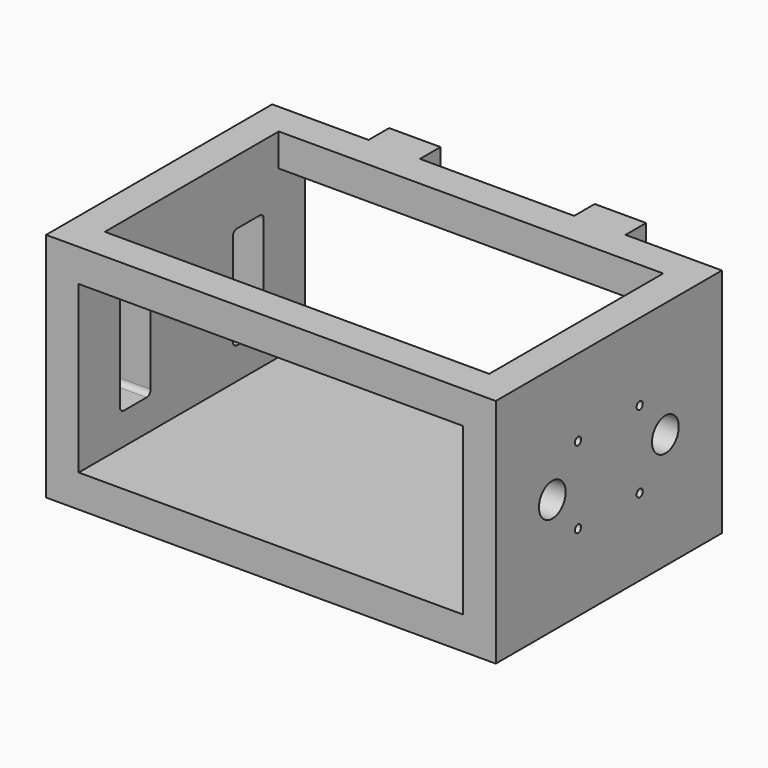
from build123d import *

# Parameters (mm, degrees)
F0_W      = 175
F0_H      = 90
F1_DEPTH  = 55
F3_W      = 149.6
F3_H      = 64.6
F4_DEPTH  = 110
F5_W      = 149.6
F5_H      = 84.6
F6_DEPTH  = 12.7
F7_DEPTH  = 12.7
F8_R      = 1.5
F9_DEPTH  = 12.7
F10_W     = 10
F10_H     = 12.7
F10_W_2   = 20
F11_DEPTH = 10
F13_DEPTH = 137.501
F15_DEPTH = 97.501


with BuildPart() as f1:
    # F0 (on Front) → F1 (new body, symmetric)
    with BuildSketch(Plane.XZ):
        Rectangle(F0_W, F0_H)
    extrude(amount=F1_DEPTH, both=True)

    # F3 (on face) → F4 (cut)
    with BuildSketch(Plane.XZ.offset(55)):
        Rectangle(F3_W, F3_H)
    extrude(amount=-F4_DEPTH, mode=Mode.SUBTRACT)

    # F5 (on face) → F6 (cut)
    with BuildSketch(Plane.XY.offset(45)):
        Rectangle(F5_W, F5_H)
    extrude(amount=-F6_DEPTH, mode=Mode.SUBTRACT)

    # F2 (on face) → F7 (cut)
    with BuildSketch(Plane(origin=(-87.5, 0, 0), x_dir=(0, -1, 0), z_dir=(-1, 0, 0))):
        with BuildLine():
            Line((20, 18), (20, 0))
            Line((20, 0), (20, -18))
            ThreePointArc((20, -18), (20.585786, -19.414214), (22, -20))
            Line((22, -20), (33, -20))
            ThreePointArc((33, -20), (34.414214, -19.414214), (35, -18))
            Line((35, -18), (35, 0))
            Line((35, 0), (35, 18))
            ThreePointArc((35, 18), (34.414214, 19.414214), (33, 20))
            Line((33, 20), (22, 20))
            ThreePointArc((22, 20), (20.585786, 19.414214), (20, 18))
        make_face()
        with BuildLine():
            Line((-22, 20), (-33, 20))
            ThreePointArc((-33, 20), (-34.414214, 19.414214), (-35, 18))
            Line((-35, 18), (-35, 0))
            Line((-35, 0), (-35, -18))
            ThreePointArc((-35, -18), (-34.414214, -19.414214), (-33, -20))
            Line((-33, -20), (-22, -20))
            ThreePointArc((-22, -20), (-20.585786, -19.414214), (-20, -18))
            Line((-20, -18), (-20, 0))
            Line((-20, 0), (-20, 18))
            ThreePointArc((-20, 18), (-20.585786, 19.414214), (-22, 20))
        make_face()
    extrude(amount=-F7_DEPTH, mode=Mode.SUBTRACT)

    # F8 (on face) → F9 (cut)
    with BuildSketch(Plane.YZ.offset(87.5)):
        with BuildLine():
            ThreePointArc((-34, 0), (-27.5, -6.5), (-21, 0))
            Line((-21, 0), (-34, 0))
        make_face()
        with BuildLine():
            Line((-34, 0), (-21, 0))
            ThreePointArc((-21, 0), (-27.5, 6.5), (-34, 0))
        make_face()
        with BuildLine():
            Line((34, 0), (21, 0))
            ThreePointArc((21, 0), (27.5, -6.5), (34, 0))
        make_face()
        with BuildLine():
            ThreePointArc((34, 0), (27.5, 6.5), (21, 0))
            Line((21, 0), (34, 0))
        make_face()
        with Locations((-15, -15)):
            Circle(F8_R)
        with Locations((-15, 15)):
            Circle(F8_R)
        with Locations((15, 15)):
            Circle(F8_R)
        with Locations((15, -15)):
            Circle(F8_R)
    extrude(amount=-F9_DEPTH, mode=Mode.SUBTRACT)

    # F10 (on face) → F11 (join)
    with BuildSketch(Plane(origin=(0, 55, 0), x_dir=(-1, 0, 0), z_dir=(0, 1, 0))):
        with Locations((5, -38.65)):
            Rectangle(F10_W, F10_H)
        with Locations((-5, -38.65)):
            Rectangle(F10_W, F10_H)
        with Locations((-40, 38.65)):
            Rectangle(F10_W_2, F10_H)
        with Locations((40, 38.65)):
            Rectangle(F10_W_2, F10_H)
    extrude(amount=F11_DEPTH)

    # F12 (on face) → F13 (cut, through all)
    with BuildSketch(Plane.YZ.offset(50)):
        with BuildLine():
            ThreePointArc((60.927961, 39.828511), (60, 40.15), (59.072039, 39.828511))
            Line((59.072039, 39.828511), (60, 38.65))
            Line((60, 38.65), (60.927961, 39.828511))
        make_face()
        with BuildLine():
            Line((60, 38.65), (59.072039, 39.828511))
            ThreePointArc((59.072039, 39.828511), (58.5, 38.65), (59.072039, 37.471489))
            Line((59.072039, 37.471489), (60, 38.65))
        make_face()
        with BuildLine():
            Line((60.927961, 39.828511), (60, 38.65))
            Line((60, 38.65), (60.927961, 37.471489))
            ThreePointArc((60.927961, 37.471489), (61.349434, 37.994997), (61.5, 38.65))
            ThreePointArc((61.5, 38.65), (61.349434, 39.305003), (60.927961, 39.828511))
        make_face()
        with BuildLine():
            Line((60.927961, 37.471489), (60, 38.65))
            Line((60, 38.65), (59.072039, 37.471489))
            ThreePointArc((59.072039, 37.471489), (60, 37.15), (60.927961, 37.471489))
        make_face()
    extrude(amount=-F13_DEPTH, mode=Mode.SUBTRACT)

    # F14 (on face) → F15 (cut, through all)
    with BuildSketch(Plane.YZ.offset(10)):
        with BuildLine():
            ThreePointArc((60.927961, -37.471489), (60, -37.15), (59.072039, -37.471489))
            Line((59.072039, -37.471489), (60, -38.65))
            Line((60, -38.65), (60.927961, -37.471489))
        make_face()
        with BuildLine():
            Line((60, -38.65), (59.072039, -37.471489))
            ThreePointArc((59.072039, -37.471489), (58.5, -38.65), (59.072039, -39.828511))
            Line((59.072039, -39.828511), (60, -38.65))
        make_face()
        with BuildLine():
            Line((60.927961, -37.471489), (60, -38.65))
            Line((60, -38.65), (60.927961, -39.828511))
            ThreePointArc((60.927961, -39.828511), (61.349434, -39.305003), (61.5, -38.65))
            ThreePointArc((61.5, -38.65), (61.349434, -37.994997), (60.927961, -37.471489))
        make_face()
        with BuildLine():
            Line((60.927961, -39.828511), (60, -38.65))
            Line((60, -38.65), (59.072039, -39.828511))
            ThreePointArc((59.072039, -39.828511), (60, -40.15), (60.927961, -39.828511))
        make_face()
    extrude(amount=-F15_DEPTH, mode=Mode.SUBTRACT)


solid = f1.part
